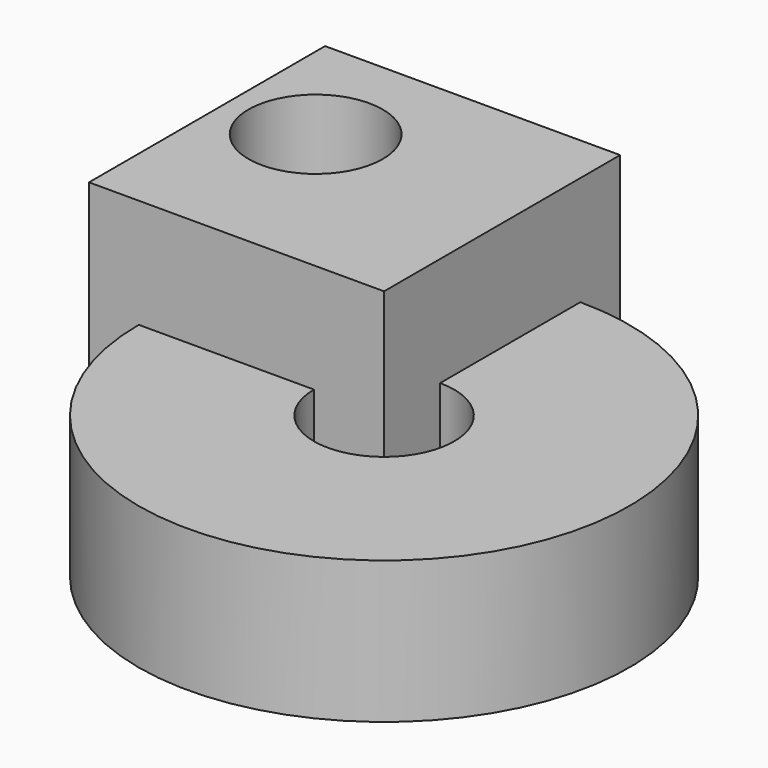
from build123d import *

# Parameters (mm, degrees)
F0_W     = 58.42
F0_H     = 58.42
F1_DEPTH = 68.390979
F2_W     = 34.69379
F2_H     = 28.147937
F4_R     = 13.288258
F5_DEPTH = 140.97


with BuildPart() as f1:
    # F0 (on Top) → F1 (new body)
    with BuildSketch(Plane.XY):
        with Locations((-12.080159, 8.183077)):
            Rectangle(F0_W, F0_H)
    extrude(amount=F1_DEPTH)

    # F2 (on face) → F3 (revolve)
    with BuildSketch(Plane.XZ.offset(21.026923)):
        with Locations((-14.097282, 32.681106)):
            Rectangle(F2_W, F2_H)
    revolve(axis=Axis((17.129841, -21.026923, 34.195489), (0, 0, 1)))

    # F4 (on face) → F5 (cut)
    with BuildSketch(Plane.XY.offset(68.390979)):
        with Locations((-23.98462, 13.432804)):
            Circle(F4_R)
    extrude(amount=-F5_DEPTH, mode=Mode.SUBTRACT)


solid = f1.part
